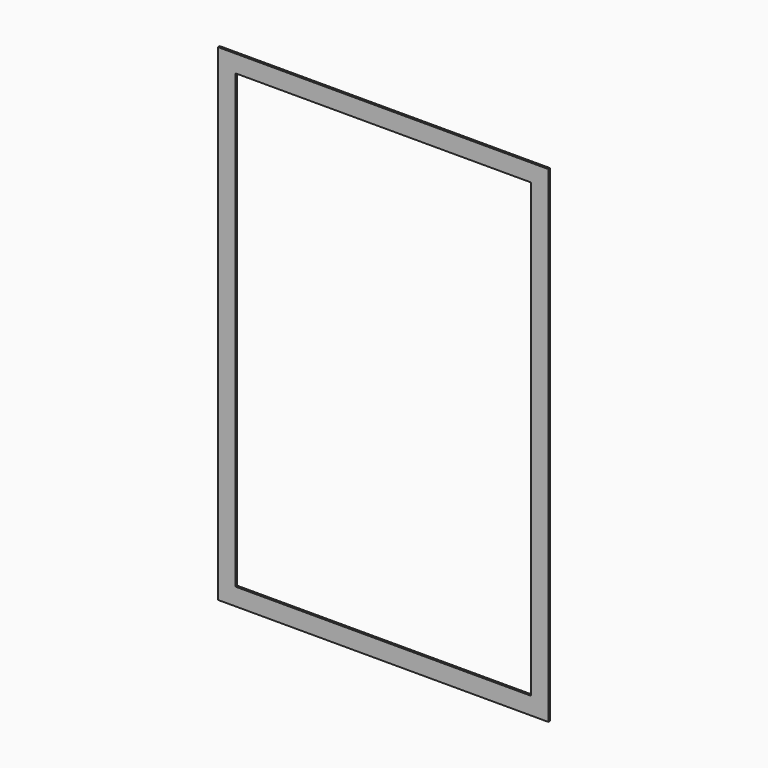
from build123d import *

# Parameters (mm, degrees)
F1_DEPTH = 3.175


with BuildPart() as f1:
    # F0 (on Front) → F1 (new body)
    with BuildSketch(Plane.XZ):
        Polygon((-241.3, 368.3), (-241.3, 342.9), (-215.9, 342.9), (215.9, 342.9), (241.3, 342.9), (241.3, 368.3), align=None)
        Polygon((-215.9, 342.9), (-241.3, 342.9), (-241.3, -342.9), (-215.9, -342.9), (-215.9, -317.5), align=None)
        Polygon((215.9, -317.5), (-215.9, -317.5), (-215.9, -342.9), (0, -342.9), (215.9, -342.9), align=None)
        Polygon((241.3, 342.9), (215.9, 342.9), (215.9, -317.5), (215.9, -342.9), (241.3, -342.9), align=None)
    extrude(amount=F1_DEPTH)


solid = f1.part
